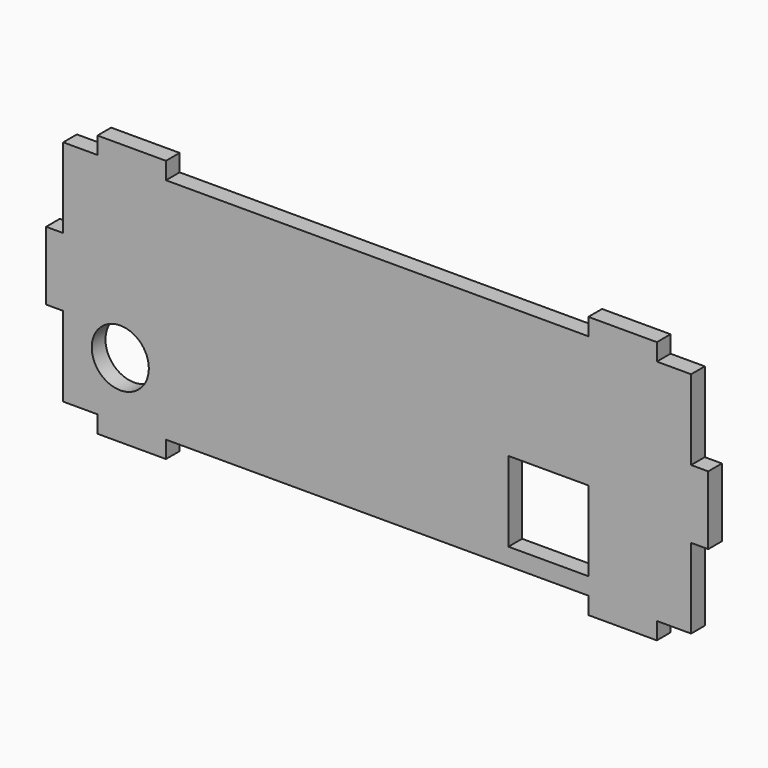
from build123d import *

# Parameters (mm, degrees)
F0_R     = 5
F0_W     = 14
F0_H     = 14
F1_DEPTH = 3


with BuildPart() as f1:
    # F0 (on Front) → F1 (new body)
    with BuildSketch(Plane.XZ):
        Polygon((55, 6), (55, 20), (49, 20), (49, 23), (37, 23), (37, 20), (-37, 20), (-37, 23), (-49, 23), (-49, 20), (-55, 20), (-55, 6), (-58, 6), (-58, -6), (-55, -6), (-55, -20), (-49, -20), (-49, -23), (-37, -23), (-37, -20), (37, -20), (37, -23), (49, -23), (49, -20), (55, -20), (55, -6), (58, -6), (58, 6), align=None)
        with Locations((-45, -10)):
            Circle(F0_R, mode=Mode.SUBTRACT)
        with Locations((30, -10)):
            Rectangle(F0_W, F0_H, mode=Mode.SUBTRACT)
    extrude(amount=F1_DEPTH)


solid = f1.part
